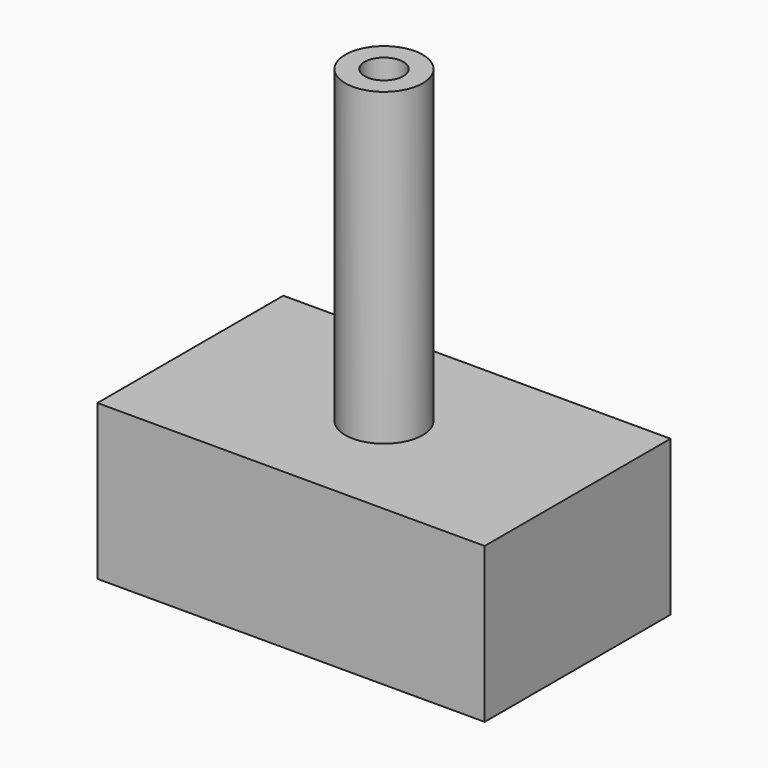
from build123d import *

# Parameters (mm, degrees)
F0_W     = 63.5
F0_H     = 38.1
F1_DEPTH = 25.4
F2_R     = 6.35
F2_R_2   = 3.175
F3_DEPTH = 50.8


with BuildPart() as f1:
    # F0 (on Top) → F1 (new body)
    with BuildSketch(Plane.XY):
        with Locations((-25.567356, -14.020799)):
            Rectangle(F0_W, F0_H)
    extrude(amount=F1_DEPTH)

    # F2 (on face) → F3 (join)
    with BuildSketch(Plane.XY.offset(25.4)):
        with Locations((-25.567356, -14.020799)):
            Circle(F2_R)
        with Locations((-25.567356, -14.020799)):
            Circle(F2_R_2, mode=Mode.SUBTRACT)
    extrude(amount=F3_DEPTH)


solid = f1.part
